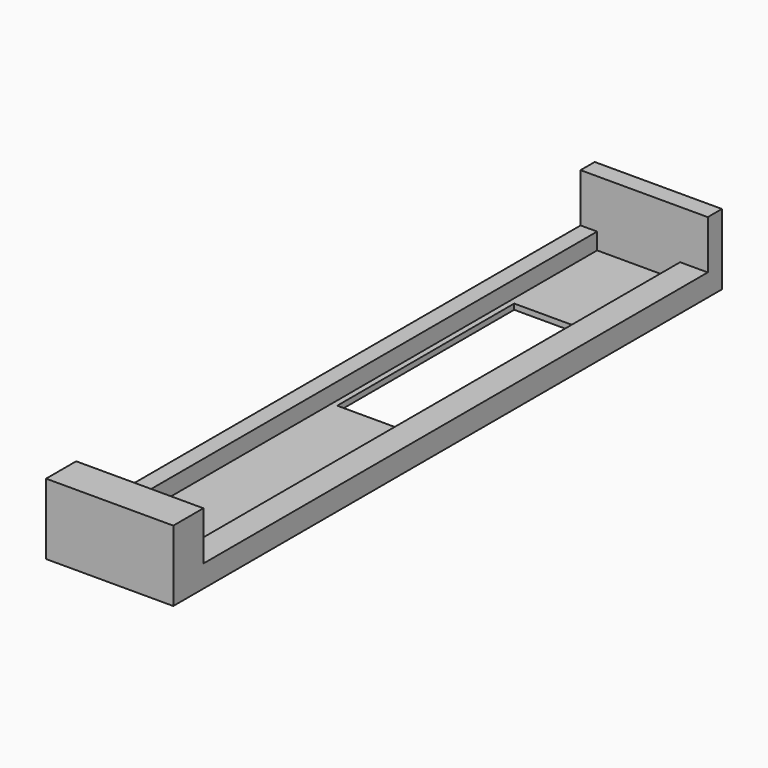
from build123d import *

# Parameters (mm, degrees)
F0_W     = 11.5
F0_H     = 62
F1_DEPTH = 2
F2_W     = 7.5
F2_H     = 57
F3_DEPTH = 1.5
F4_W     = 6
F4_H     = 20
F5_DEPTH = 0.5
F6_W     = 11.5
F6_H     = 3.4
F6_H_2   = 1.6
F7_DEPTH = 4.4


with BuildPart() as f1:
    # F0 (on Top) → F1 (new body)
    with BuildSketch(Plane.XY):
        with Locations((0, -0.639212)):
            Rectangle(F0_W, F0_H)
    extrude(amount=F1_DEPTH)

    # F2 (on face) → F3 (cut)
    with BuildSketch(Plane.XY.offset(2)):
        with Locations((-0.5, 0.260788)):
            Rectangle(F2_W, F2_H)
    extrude(amount=-F3_DEPTH, mode=Mode.SUBTRACT)

    # F4 (on face) → F5 (cut, through all)
    with BuildSketch(Plane.XY.offset(0.5)):
        with Locations((-0.75, 8.760788)):
            Rectangle(F4_W, F4_H)
    extrude(amount=-F5_DEPTH, mode=Mode.SUBTRACT)

    # F6 (on face) → F7 (join)
    with BuildSketch(Plane.XY.offset(2)):
        with Locations((0, -29.939212)):
            Rectangle(F6_W, F6_H)
        with Locations((0, 29.560788)):
            Rectangle(F6_W, F6_H_2)
    extrude(amount=F7_DEPTH)


solid = f1.part
